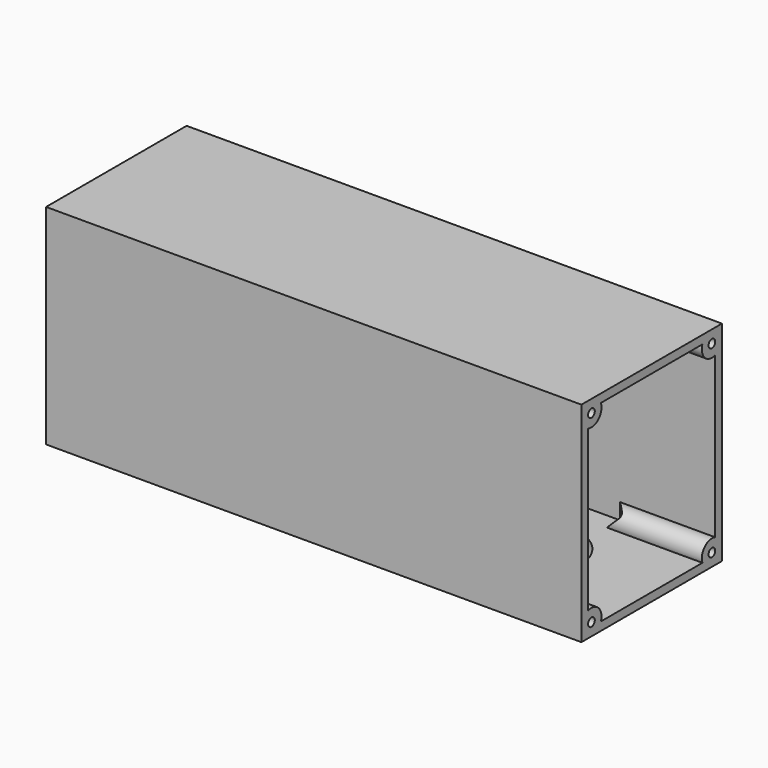
from build123d import *

# Parameters (mm, degrees)
SKETCH_W        = 64
SKETCH_H        = 21
PAD_DEPTH       = 25
SKETCH001_W     = 62
SKETCH001_H     = 19
POCKET_DEPTH    = 24
SKETCH003_R     = 3.25
POCKET001_DEPTH = 5
SKETCH004_R     = 2
PAD001_DEPTH    = 3.5
SKETCH005_W     = 20
SKETCH005_H     = 1
PAD002_DEPTH    = 63
CHAMFER_SIZE    = 3.4
SKETCH006_R     = 1.5
PAD003_DEPTH    = 10
SKETCH007_R     = 0.5
POCKET002_DEPTH = 8
CHAMFER001_SIZE = 1.4


with BuildPart() as part:
    # Sketch → Pad (new body)
    with BuildSketch(Plane.XY):
        with Locations((32, 10.5)):
            Rectangle(SKETCH_W, SKETCH_H)
    extrude(amount=PAD_DEPTH)

    # Sketch001 (on Face6 of Pad) → Pocket (cut)
    with BuildSketch(Plane.XY.offset(25)):
        with Locations((33, 10.5)):
            Rectangle(SKETCH001_W, SKETCH001_H)
    extrude(amount=-POCKET_DEPTH, mode=Mode.SUBTRACT)

    # Sketch003 (on Face10 of Pocket) → Pocket001 (cut)
    with BuildSketch(Plane.YZ.offset(2)):
        with Locations((10.5, 7)):
            Circle(SKETCH003_R)
    extrude(amount=-POCKET001_DEPTH, mode=Mode.SUBTRACT)

    # Sketch004 (on Face9 of Pocket001) → Pad001 (join)
    with BuildSketch(Plane.XY.offset(1)):
        with Locations((15, 10.5)):
            Circle(SKETCH004_R)
        with Locations((50, 10.5)):
            Circle(SKETCH004_R)
    extrude(amount=PAD001_DEPTH)

    # Sketch005 (on Face3 of Pad001) → Pad002 (join)
    with BuildSketch(Plane.YZ.offset(64)):
        with Locations((10.5, 24.5)):
            Rectangle(SKETCH005_W, SKETCH005_H)
    extrude(amount=-PAD002_DEPTH)

    # Chamfer
    chamfer_edges = [part.edges().sort_by_distance(p)[0] for p in [
        (13, 10.5, 1),
        (48, 10.5, 1),
    ]]
    chamfer(chamfer_edges, length=CHAMFER_SIZE)

    # Sketch006 (on Face5 of Chamfer) → Pad003 (join)
    with BuildSketch(Plane.YZ.offset(64)):
        with Locations((1.5, 23.5)):
            Circle(SKETCH006_R)
        with Locations((19.5, 23.5)):
            Circle(SKETCH006_R)
        with Locations((1.5, 1.5)):
            Circle(SKETCH006_R)
        with Locations((19.5, 1.5)):
            Circle(SKETCH006_R)
    extrude(amount=-PAD003_DEPTH)

    # Sketch007 → Pocket002 (cut)
    with BuildSketch(Plane.YZ.offset(64)):
        with Locations((1.5, 23.5)):
            Circle(SKETCH007_R)
        with Locations((19.5, 23.5)):
            Circle(SKETCH007_R)
        with Locations((1.5, 1.5)):
            Circle(SKETCH007_R)
        with Locations((19.5, 1.5)):
            Circle(SKETCH007_R)
    extrude(amount=-POCKET002_DEPTH, mode=Mode.SUBTRACT)

    # Chamfer001
    chamfer001_edges = [part.edges().sort_by_distance(p)[0] for p in [
        (54, 1.957107, 1),
        (54, 1, 1.957107),
        (54, 20, 1.957107),
        (54, 19.042893, 1),
        (54, 1, 23.042893),
        (54, 1.957107, 24),
        (54, 19.042893, 24),
        (54, 20, 23.042893),
    ]]
    chamfer(chamfer001_edges, length=CHAMFER001_SIZE)


solid = part.part
